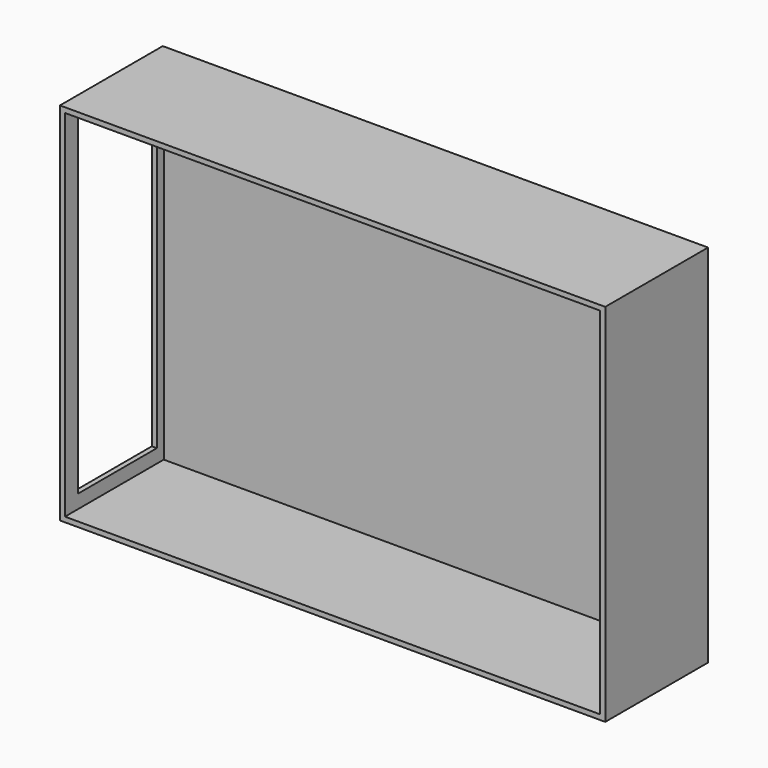
from build123d import *

# Parameters (mm, degrees)
F0_W     = 107.7976
F0_H     = 72.2376
F1_DEPTH = 25.4
F2_T     = -0.9906
F3_W     = 19.471491
F3_H     = 65.671131
F4_DEPTH = 25.4


with BuildPart() as f1:
    # F0 (on Front) → F1 (new body)
    with BuildSketch(Plane.XZ):
        Rectangle(F0_W, F0_H)
    extrude(amount=F1_DEPTH)

    # F2
    f2_openings = [f1.faces().sort_by_distance(p)[0] for p in [
        (0, -25.4, 0),
    ]]
    offset(amount=F2_T, openings=f2_openings)

    # F3 (on face) → F4 (cut)
    with BuildSketch(Plane(origin=(-53.8988, 0, 0), x_dir=(0, -1, 0), z_dir=(-1, 0, 0))):
        with Locations((12.441532, 0.397727)):
            Rectangle(F3_W, F3_H)
    extrude(amount=-F4_DEPTH, mode=Mode.SUBTRACT)


solid = f1.part
